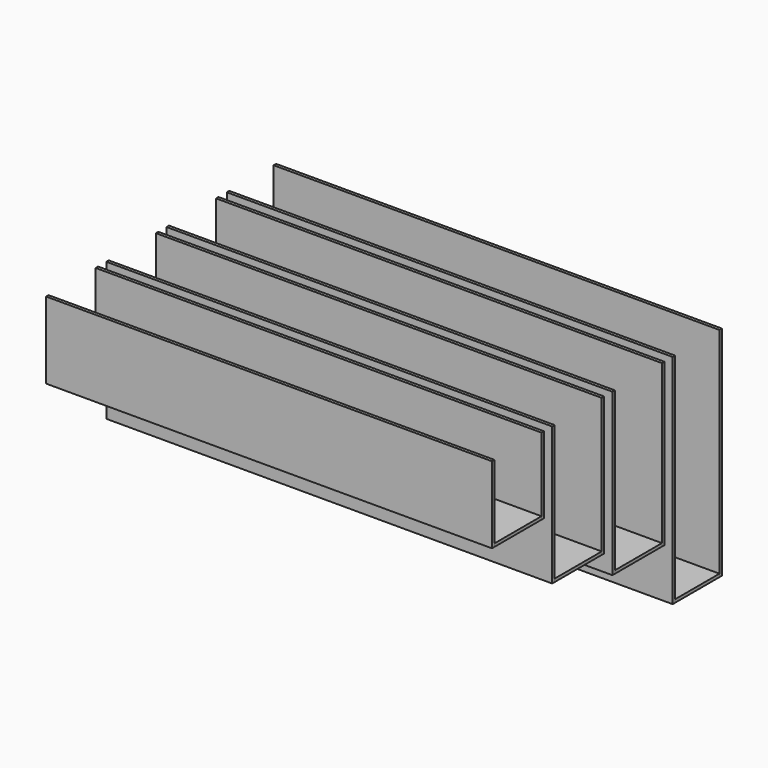
from build123d import *

# Parameters (mm, degrees)
F0_W      = 9
F0_H      = 224
F1_DEPTH  = 1303
F2_W      = 172
F2_H      = 9
F3_DEPTH  = 1303
F4_W      = 9
F4_H      = 224
F5_DEPTH  = 1303
F6_W      = 9
F6_H      = 404
F7_DEPTH  = 1303
F8_W      = 172
F8_H      = 9
F9_DEPTH  = 1303
F10_W     = 9
F10_H     = 404
F11_DEPTH = 1303
F12_W     = 9
F12_H     = 472
F13_DEPTH = 1303
F14_W     = 172
F14_H     = 9
F15_DEPTH = 1303
F16_W     = 9
F16_H     = 472
F17_DEPTH = 1303
F18_W     = 9
F18_H     = 636
F19_DEPTH = 1303
F20_W     = 162
F20_H     = 9
F21_DEPTH = 1303
F22_W     = 9
F22_H     = 636
F23_DEPTH = 1303


with BuildPart() as f1:
    # F0 (on Right) → F1 (new body)
    with BuildSketch(Plane.YZ):
        with Locations((-42.51715, 154.30868)):
            Rectangle(F0_W, F0_H)
    extrude(amount=-F1_DEPTH)


with BuildPart() as f3:
    # F2 (on Right) → F3 (new body, through all)
    with BuildSketch(Plane.YZ):
        with Locations((47.98285, 46.80868)):
            Rectangle(F2_W, F2_H)
    extrude(amount=-F3_DEPTH)


with BuildPart() as f5:
    # F4 (on Right) → F5 (new body, through all)
    with BuildSketch(Plane.YZ):
        with Locations((138.48285, 154.30868)):
            Rectangle(F4_W, F4_H)
    extrude(amount=-F5_DEPTH)


with BuildPart() as f7:
    # F6 (on Right) → F7 (new body, through all)
    with BuildSketch(Plane.YZ):
        with Locations((177.48285, 64.30868)):
            Rectangle(F6_W, F6_H)
    extrude(amount=-F7_DEPTH)


with BuildPart() as f9:
    # F8 (on Right) → F9 (new body, through all)
    with BuildSketch(Plane.YZ):
        with Locations((267.98285, -133.19132)):
            Rectangle(F8_W, F8_H)
    extrude(amount=-F9_DEPTH)


with BuildPart() as f11:
    # F10 (on Right) → F11 (new body, through all)
    with BuildSketch(Plane.YZ):
        with Locations((358.48285, 64.30868)):
            Rectangle(F10_W, F10_H)
    extrude(amount=-F11_DEPTH)


with BuildPart() as f13:
    # F12 (on Right) → F13 (new body, through all)
    with BuildSketch(Plane.YZ):
        with Locations((397.48285, 30.30868)):
            Rectangle(F12_W, F12_H)
    extrude(amount=-F13_DEPTH)


with BuildPart() as f15:
    # F14 (on Right) → F15 (new body, through all)
    with BuildSketch(Plane.YZ):
        with Locations((487.98285, -201.19132)):
            Rectangle(F14_W, F14_H)
    extrude(amount=-F15_DEPTH)


with BuildPart() as f17:
    # F16 (on face) → F17 (new body, through all)
    with BuildSketch(Plane.YZ):
        with Locations((578.48285, 30.30868)):
            Rectangle(F16_W, F16_H)
    extrude(amount=-F17_DEPTH)


with BuildPart() as f19:
    # F18 (on face) → F19 (new body, through all)
    with BuildSketch(Plane.YZ):
        with Locations((617.48285, -51.69132)):
            Rectangle(F18_W, F18_H)
    extrude(amount=-F19_DEPTH)


with BuildPart() as f21:
    # F20 (on face) → F21 (new body, through all)
    with BuildSketch(Plane.YZ):
        with Locations((702.98285, -365.19132)):
            Rectangle(F20_W, F20_H)
    extrude(amount=-F21_DEPTH)


with BuildPart() as f23:
    # F6 (on Right) + F22 (on face) → F23 (new body, through all)
    with BuildSketch(Plane.YZ):
        with Locations((177.48285, 64.30868)):
            Rectangle(F6_W, F6_H)
    with BuildSketch(Plane.YZ):
        with Locations((788.48285, -51.69132)):
            Rectangle(F22_W, F22_H)
    extrude(amount=-F23_DEPTH)


solid = Compound([f1.part, f3.part, f5.part, f7.part, f9.part, f11.part, f13.part, f15.part, f17.part, f19.part, f21.part, f23.part])
